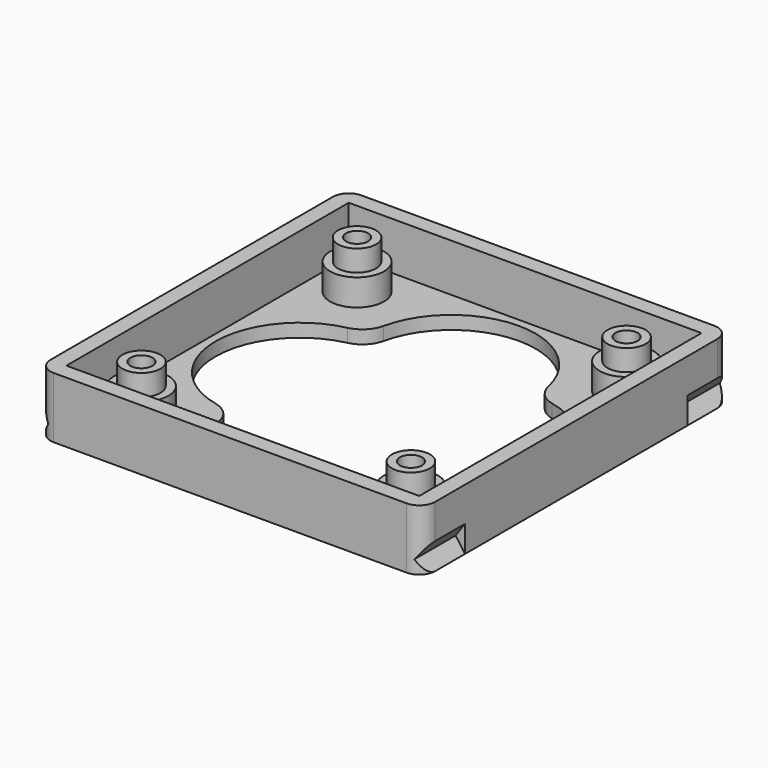
from build123d import *

# Parameters (mm, degrees)
PAD011_DEPTH                = 4.6
SKETCH016_W                 = 26.6
SKETCH016_H                 = 26.6
POCKET005_DEPTH             = 3.6
SKETCH018_R                 = 2.032
SKETCH018_R_2               = 0.832
PAD012_DEPTH                = 2
SKETCH018_MIRRORED013_2_R   = 2.032
SKETCH018_MIRRORED013_2_R_2 = 0.832
PAD012_MIRRORED013_2_DEPTH  = 2
SKETCH_R                    = 1.432
SKETCH_R_2                  = 0.832
PAD_DEPTH                   = 1.6
SKETCH_MIRRORED023_2_R      = 1.432
SKETCH_MIRRORED023_2_R_2    = 0.832
PAD_MIRRORED023_2_DEPTH     = 1.6
POCKET007_DEPTH             = 1.001
POCKET009_DEPTH             = 4
POCKET009_MIRRORED_2_DEPTH  = 4
FILLET014_R                 = 2


with BuildPart() as part:
    # Sketch015 → Pad011 (new body)
    with BuildSketch(Plane.XY):
        with BuildLine():
            Line((-13.3, 14.5), (13.3, 14.5))
            ThreePointArc((14.5, 13.3), (14.148528, 14.148528), (13.3, 14.5))
            Line((14.5, 13.3), (14.5, -13.3))
            ThreePointArc((13.3, -14.5), (14.148528, -14.148528), (14.5, -13.3))
            Line((13.3, -14.5), (-13.3, -14.5))
            ThreePointArc((-14.5, -13.3), (-14.148528, -14.148528), (-13.3, -14.5))
            Line((-14.5, -13.3), (-14.5, 13.3))
            ThreePointArc((-13.3, 14.5), (-14.148528, 14.148528), (-14.5, 13.3))
        make_face()
    extrude(amount=PAD011_DEPTH)

    # Sketch016 (on Face10 of Pad011) → Pocket005 (cut)
    with BuildSketch(Plane.XY.offset(4.6)):
        Rectangle(SKETCH016_W, SKETCH016_H)
    extrude(amount=-POCKET005_DEPTH, mode=Mode.SUBTRACT)

    # Sketch018 → Pad012 (join)
    with BuildSketch(Plane.XY.offset(1)):
        with Locations((10.16, 10.16)):
            Circle(SKETCH018_R)
        with Locations((10.16, 10.16)):
            Circle(SKETCH018_R_2, mode=Mode.SUBTRACT)
    pad012 = extrude(amount=PAD012_DEPTH)

    # Sketch018 Mirrored013 2 → Pad012 Mirrored013 2 (add)
    with BuildSketch(Plane(origin=(0, 0, 1), x_dir=(-1, 0, 0), z_dir=(0, 0, -1))):
        with Locations((10.16, 10.16)):
            Circle(SKETCH018_MIRRORED013_2_R)
        with Locations((10.16, 10.16)):
            Circle(SKETCH018_MIRRORED013_2_R_2, mode=Mode.SUBTRACT)
    pad012_mirrored013_2 = extrude(amount=-PAD012_MIRRORED013_2_DEPTH)

    # Mirrored014: Pad012, Pad012 Mirrored013 2 across Sketch018 H_Axis
    add(pad012.mirror(Plane(origin=(0, 0, 1), x_dir=(0, 0, 1), z_dir=(0, 1, 0))))
    add(pad012_mirrored013_2.mirror(Plane(origin=(0, 0, 1), x_dir=(0, 0, 1), z_dir=(0, 1, 0))))

    # Sketch (on Face22 of MultiTransform008) → Pad (join)
    with BuildSketch(Plane.XY.offset(3)):
        with Locations((10.16, 10.16)):
            Circle(SKETCH_R)
        with Locations((10.16, 10.16)):
            Circle(SKETCH_R_2, mode=Mode.SUBTRACT)
    pad = extrude(amount=PAD_DEPTH)

    # Sketch Mirrored023 2 → Pad Mirrored023 2 (add)
    with BuildSketch(Plane(origin=(0, 0, 3), x_dir=(-1, 0, 0), z_dir=(0, 0, -1))):
        with Locations((10.16, 10.16)):
            Circle(SKETCH_MIRRORED023_2_R)
        with Locations((10.16, 10.16)):
            Circle(SKETCH_MIRRORED023_2_R_2, mode=Mode.SUBTRACT)
    pad_mirrored023_2 = extrude(amount=-PAD_MIRRORED023_2_DEPTH)

    # Mirrored024: Pad, Pad Mirrored023 2 across Sketch H_Axis
    add(pad.mirror(Plane(origin=(0, 0, 3), x_dir=(0, 0, 1), z_dir=(0, 1, 0))))
    add(pad_mirrored023_2.mirror(Plane(origin=(0, 0, 3), x_dir=(0, 0, 1), z_dir=(0, 1, 0))))

    # Sketch020 (on Face15 of Pocket005) → Pocket007 (cut, through all)
    with BuildSketch(Plane.XY.offset(1)):
        with BuildLine():
            ThreePointArc((6.35, 6.35), (0, 12.7), (-6.35, 6.35))
            ThreePointArc((-6.35, 6.35), (-12.699991, 0), (-6.35, -6.35))
            ThreePointArc((-6.35, -6.35), (0, -12.7), (6.35, -6.35))
            ThreePointArc((6.35, -6.35), (12.7, 0), (6.35, 6.35))
        make_face()
    extrude(amount=-POCKET007_DEPTH, mode=Mode.SUBTRACT)

    # Sketch026 (on Face6 of Pocket007) → Pocket009 (cut)
    with BuildSketch(Plane.XZ.offset(14.5)):
        Polygon((14.5, 0), (13.799792, 1), (14.5, 2), align=None)
    pocket009 = extrude(amount=-POCKET009_DEPTH, mode=Mode.SUBTRACT)

    # Sketch026 Mirrored 2 → Pocket009 Mirrored 2 (cut)
    with BuildSketch(Plane(origin=(0, -14.5, 0), x_dir=(-1, 0, 0), z_dir=(0, 1, 0))):
        Polygon((14.5, 0), (13.799792, 1), (14.5, 2), align=None)
    pocket009_mirrored_2 = extrude(amount=POCKET009_MIRRORED_2_DEPTH, mode=Mode.SUBTRACT)

    # Mirrored022: Pocket009, Pocket009 Mirrored 2 across XZ
    add(pocket009.mirror(Plane.XZ), mode=Mode.SUBTRACT)
    add(pocket009_mirrored_2.mirror(Plane.XZ), mode=Mode.SUBTRACT)

    # Fillet014
    fillet014_edges = [part.edges().sort_by_distance(p)[0] for p in [
        (-6.35, 6.35, 0.5),
        (6.35, 6.35, 0.5),
        (-6.35, -6.35, 0.5),
        (6.35, -6.35, 0.5),
    ]]
    fillet(fillet014_edges, radius=FILLET014_R)


solid = part.part
